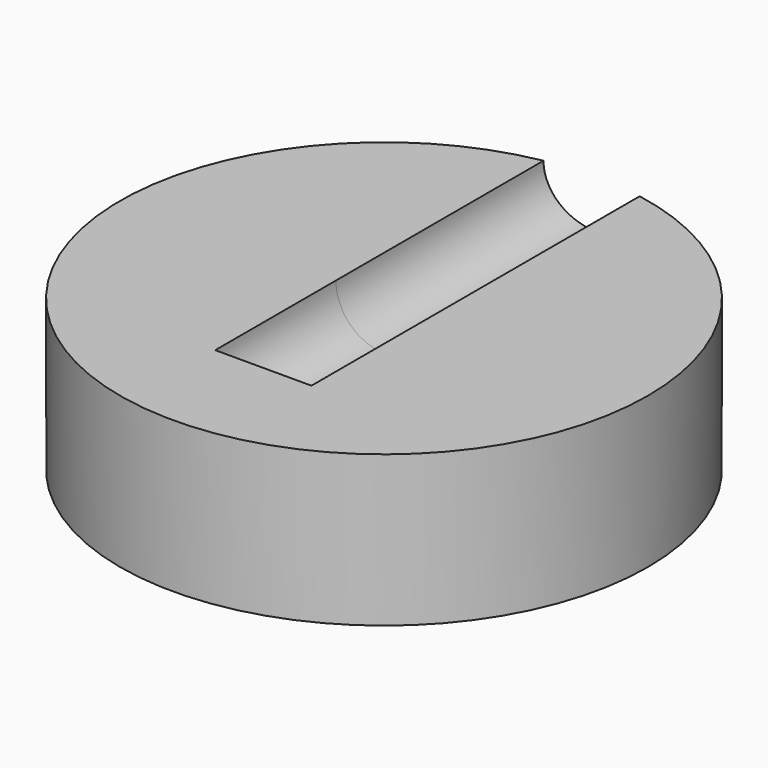
from build123d import *

# Parameters (mm, degrees)
F0_R     = 22.225
F1_DEPTH = 12.7
F2_R     = 19.177
F3_DEPTH = 6.35
F4_R     = 4.05
F5_DEPTH = 22.226
F6_DEPTH = 12.7


with BuildPart() as f1:
    # F0 (on Top) → F1 (new body)
    with BuildSketch(Plane.XY):
        Circle(F0_R)
    extrude(amount=F1_DEPTH)

    # F2 (on face) → F3 (cut)
    with BuildSketch(Plane(origin=(0, 0, 0), x_dir=(1, 0, 0), z_dir=(0, 0, -1))):
        Circle(F2_R)
    extrude(amount=-F3_DEPTH, mode=Mode.SUBTRACT)

    # F4 (on Front) → F5 (cut, through all)
    with BuildSketch(Plane.XZ):
        with Locations((0, 12.7)):
            Circle(F4_R)
    extrude(amount=-F5_DEPTH, mode=Mode.SUBTRACT)

    # F4 (on Front) → F6 (cut)
    with BuildSketch(Plane.XZ):
        with Locations((0, 12.7)):
            Circle(F4_R)
    extrude(amount=F6_DEPTH, mode=Mode.SUBTRACT)


solid = f1.part
